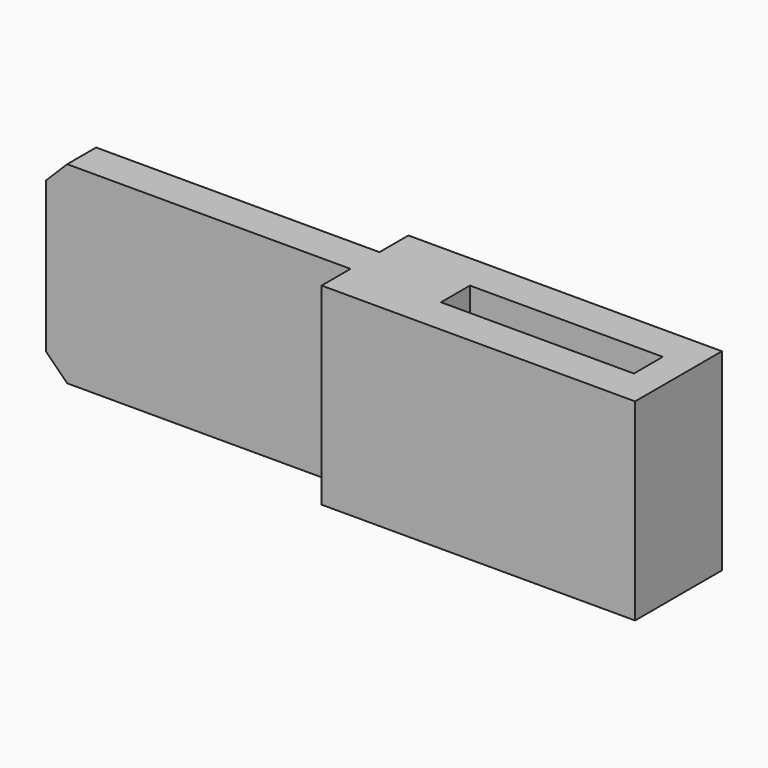
from build123d import *

# Parameters (mm, degrees)
F0_W     = 52
F0_H     = 32
F1_DEPTH = 9
F2_W     = 32
F2_H     = 6
F3_DEPTH = 32.001
F4_W     = 6
F4_H     = 32
F5_DEPTH = 50.5
F7_DEPTH = 12.001


with BuildPart() as f1:
    # F0 (on Front) → F1 (new body, symmetric)
    with BuildSketch(Plane.XZ):
        with Locations((-26, 16)):
            Rectangle(F0_W, F0_H)
    extrude(amount=F1_DEPTH, both=True)

    # F2 (on face) → F3 (cut, through all)
    with BuildSketch(Plane.XY.offset(32)):
        with Locations((-21, 0)):
            Rectangle(F2_W, F2_H)
    extrude(amount=-F3_DEPTH, mode=Mode.SUBTRACT)

    # F4 (on face) → F5 (join)
    with BuildSketch(Plane(origin=(-52, 0, 0), x_dir=(0, -1, 0), z_dir=(-1, 0, 0))):
        with Locations((0, 16)):
            Rectangle(F4_W, F4_H)
    extrude(amount=F5_DEPTH)

    # F6 (on face) → F7 (cut, through all)
    with BuildSketch(Plane.XZ.offset(3)):
        Polygon((-102.5, 28.5), (-99, 32), (-102.5, 32), align=None)
        Polygon((-102.5, 0), (-99, 0), (-102.5, 3.5), align=None)
    extrude(amount=-F7_DEPTH, mode=Mode.SUBTRACT)


solid = f1.part
